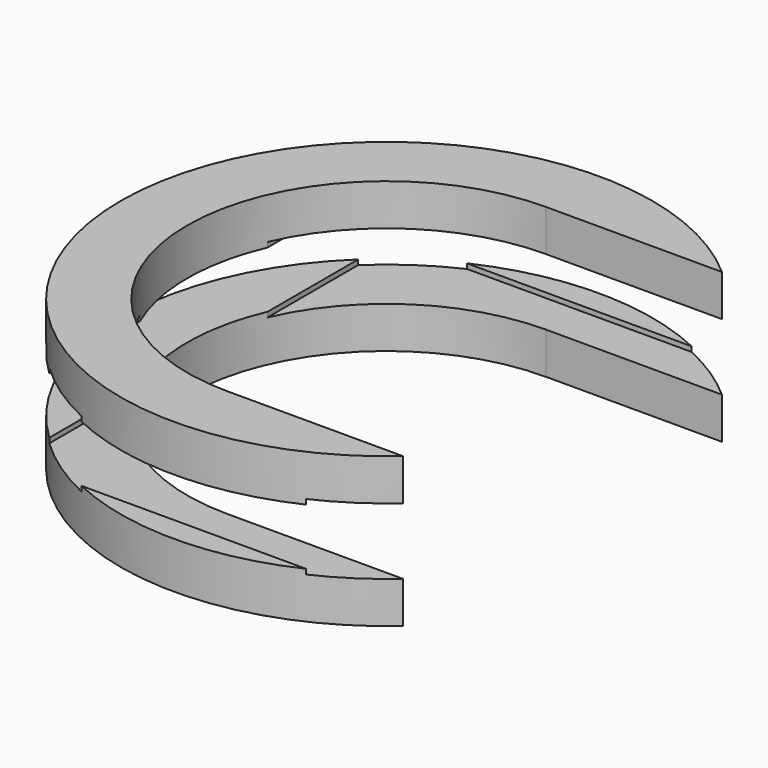
from build123d import *

# Parameters (mm, degrees)
BOX002_W          = 50
BOX002_H          = 29
BOX002_DEPTH      = 4
BOX003_W          = 58
BOX003_H          = 24
BOX003_DEPTH      = 30
CYLINDER002_R     = 12
CYLINDER002_DEPTH = 9
CYLINDER_R        = 16
CYLINDER_DEPTH    = 3.4
CYLINDER001_R     = 16
CYLINDER001_DEPTH = 9


with BuildPart() as inner_lens_extraction_cube:
    # Box002 → Box002 (new body)
    with BuildSketch(Plane(origin=(-11, -14.5, -2), x_dir=(1, 0, 0), z_dir=(0, 0, 1))):
        with Locations((25, 14.5)):
            Rectangle(BOX002_W, BOX002_H)
    extrude(amount=BOX002_DEPTH)


with BuildPart() as inner_cut_cube001:
    # Box003 → Box003 (new body)
    with BuildSketch(Plane(origin=(0, -12, -14), x_dir=(1, 0, 0), z_dir=(0, 0, 1))):
        with Locations((29, 12)):
            Rectangle(BOX003_W, BOX003_H)
    extrude(amount=BOX003_DEPTH)


with BuildPart() as lens_hole002:
    # Cylinder002 → Cylinder002 (new body)
    with BuildSketch(Plane.XY.offset(-4.5)):
        Circle(CYLINDER002_R)
    extrude(amount=CYLINDER002_DEPTH)


with BuildPart() as another_cut_fusion:
    # Cylinder → Cylinder (new body)
    with BuildSketch(Plane.XY.offset(-1.7)):
        Circle(CYLINDER_R)
    extrude(amount=CYLINDER_DEPTH)

    # Fusion001: union inner lens extraction cube, inner cut cube001, lens hole002
    add(inner_lens_extraction_cube.part)
    add(inner_cut_cube001.part)
    add(lens_hole002.part)


with BuildPart() as cut001:
    # Cylinder001 → Cylinder001 (new body)
    with BuildSketch(Plane.XY.offset(-4.5)):
        Circle(CYLINDER001_R)
    extrude(amount=CYLINDER001_DEPTH)

    # Cut001: cut another cut fusion
    add(another_cut_fusion.part, mode=Mode.SUBTRACT)


solid = cut001.part
